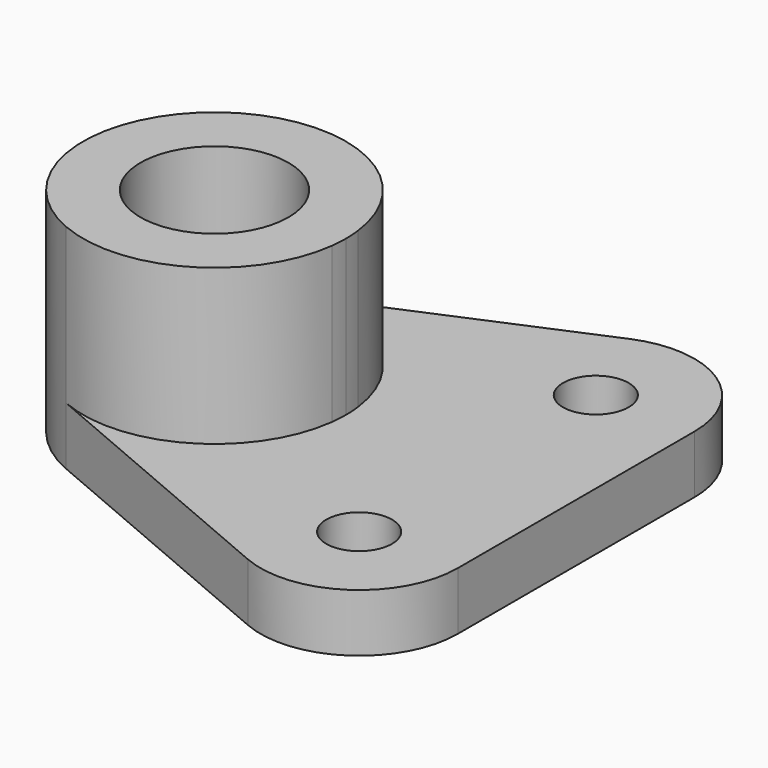
from build123d import *

# Parameters (mm, degrees)
F0_R     = 14.2875
F1_DEPTH = 41.148
F0_R_2   = 6.35
F2_DEPTH = 11.176


with BuildPart() as f1:
    # F0 (on Top) → F1 (new body)
    with BuildSketch(Plane.XY):
        with BuildLine():
            ThreePointArc((-27.169401, -3.175), (-27.020036, -1.590622), (-26.970182, 0))
            ThreePointArc((-26.970182, 0), (-27.020036, 1.590622), (-27.169401, 3.175))
            ThreePointArc((-27.169401, 3.175), (-39.724718, 22.028441), (-62.336825, 23.36292))
            ThreePointArc((-62.336825, 23.36292), (-77.770182, 0), (-62.336825, -23.36292))
            ThreePointArc((-62.336825, -23.36292), (-39.724718, -22.028441), (-27.169401, -3.175))
        make_face()
        with Locations((-52.370182, 0)):
            Circle(F0_R, mode=Mode.SUBTRACT)
    extrude(amount=F1_DEPTH)

    # F0 (on Top) → F2 (join)
    with BuildSketch(Plane.XY):
        with BuildLine():
            Line((17.479818, -3.175), (-27.169401, -3.175))
            ThreePointArc((-27.169401, -3.175), (-39.724718, -22.028441), (-62.336825, -23.36292))
            Line((-62.336825, -23.36292), (-9.045164, -46.09719))
            ThreePointArc((-9.045164, -46.09719), (8.929915, -44.469982), (17.479818, -28.575))
            Line((17.479818, -28.575), (17.479818, -3.175))
        make_face()
        with Locations((-1.570182, -28.575)):
            Circle(F0_R_2, mode=Mode.SUBTRACT)
        with BuildLine():
            ThreePointArc((-62.336825, 23.36292), (-39.724718, 22.028441), (-27.169401, 3.175))
            Line((-27.169401, 3.175), (17.479818, 3.175))
            Line((17.479818, 3.175), (17.479818, 28.575))
            ThreePointArc((17.479818, 28.575), (8.929915, 44.469982), (-9.045164, 46.09719))
            Line((-9.045164, 46.09719), (-62.336825, 23.36292))
        make_face()
        with Locations((-1.570182, 28.575)):
            Circle(F0_R_2, mode=Mode.SUBTRACT)
        with BuildLine():
            ThreePointArc((-27.169401, 3.175), (-27.020036, 1.590622), (-26.970182, 0))
            ThreePointArc((-26.970182, 0), (-27.020036, -1.590622), (-27.169401, -3.175))
            Line((-27.169401, -3.175), (17.479818, -3.175))
            Line((17.479818, -3.175), (17.479818, 3.175))
            Line((17.479818, 3.175), (-27.169401, 3.175))
        make_face()
    extrude(amount=F2_DEPTH)


solid = f1.part
